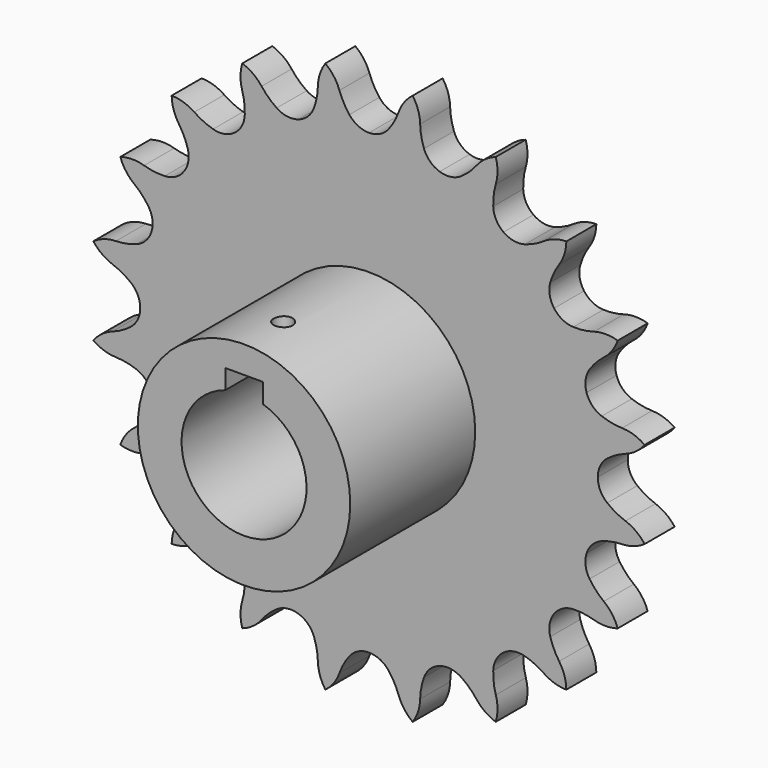
from build123d import *

# Parameters (mm, degrees)
F0_R     = 17
F1_DEPTH = 25
F3_DEPTH = 6
F4_DEPTH = 25
F6_R     = 1.5
F7_DEPTH = 11.1


with BuildPart() as f1:
    # F0 (on Front) → F1 (new body)
    with BuildSketch(Plane.XZ):
        Circle(F0_R)
        with BuildLine():
            ThreePointArc((3, 9.539392), (0, -10), (-3, 9.539392))
            Line((-3, 9.539392), (-3, 12.662534))
            Line((-3, 12.662534), (3, 12.662534))
            Line((3, 12.662534), (3, 9.539392))
        make_face(mode=Mode.SUBTRACT)
    extrude(amount=F1_DEPTH)

    # F2 (on Front) → F3 (join)
    with BuildSketch(Plane.XZ):
        with BuildLine():
            ThreePointArc((-3.137307, 38.140967), (-4.052632, 39.530453), (-4.7327, 41.049005))
            ThreePointArc((-4.7327, 41.049005), (-5.632975, 42.747893), (-6.986829, 44.113103))
            ThreePointArc((-6.986829, 44.113103), (-7.852548, 42.396347), (-8.183775, 40.502408))
            ThreePointArc((-8.183775, 40.502408), (-8.3613, 38.848027), (-8.802451, 37.243696))
            ThreePointArc((-8.802451, 37.243696), (-9.778005, 35.741474), (-11.313359, 34.81894))
            ThreePointArc((-11.313359, 34.81894), (-13.097739, 34.662827), (-14.769963, 35.304734))
            ThreePointArc((-14.769963, 35.304734), (-16.069864, 36.343363), (-17.185905, 37.577439))
            ThreePointArc((-17.185905, 37.577439), (-18.567103, 38.914977), (-20.276568, 39.795005))
            ThreePointArc((-20.276568, 39.795005), (-20.569409, 37.894752), (-20.299165, 35.991153))
            ThreePointArc((-20.299165, 35.991153), (-19.956769, 34.362886), (-19.880563, 32.700753))
            ThreePointArc((-19.880563, 32.700753), (-20.344158, 30.970592), (-21.519288, 29.618759))
            ThreePointArc((-21.519288, 29.618759), (-23.168092, 28.918884), (-24.956833, 29.012628))
            ThreePointArc((-24.956833, 29.012628), (-26.514065, 29.598731), (-27.956834, 30.427531))
            ThreePointArc((-27.956834, 30.427531), (-29.683754, 31.272793), (-31.581495, 31.581495))
            ThreePointArc((-31.581495, 31.581495), (-31.272793, 29.683754), (-30.427531, 27.956834))
            ThreePointArc((-30.427531, 27.956834), (-29.598731, 26.514065), (-29.012628, 24.956833))
            ThreePointArc((-29.012628, 24.956833), (-28.918884, 23.168092), (-29.618759, 21.519288))
            ThreePointArc((-29.618759, 21.519288), (-30.970592, 20.344158), (-32.700753, 19.880563))
            ThreePointArc((-32.700753, 19.880563), (-34.362886, 19.956769), (-35.991153, 20.299165))
            ThreePointArc((-35.991153, 20.299165), (-37.894752, 20.569409), (-39.795005, 20.276568))
            ThreePointArc((-39.795005, 20.276568), (-38.914977, 18.567103), (-37.577439, 17.185905))
            ThreePointArc((-37.577439, 17.185905), (-36.343363, 16.069864), (-35.304734, 14.769963))
            ThreePointArc((-35.304734, 14.769963), (-34.662827, 13.097739), (-34.81894, 11.313359))
            ThreePointArc((-34.81894, 11.313359), (-35.741474, 9.778005), (-37.243696, 8.802451))
            ThreePointArc((-37.243696, 8.802451), (-38.848027, 8.3613), (-40.502408, 8.183775))
            ThreePointArc((-40.502408, 8.183775), (-42.396347, 7.852548), (-44.113103, 6.986829))
            ThreePointArc((-44.113103, 6.986829), (-42.747893, 5.632975), (-41.049005, 4.7327))
            ThreePointArc((-41.049005, 4.7327), (-39.530453, 4.052632), (-38.140967, 3.137307))
            ThreePointArc((-38.140967, 3.137307), (-37.013731, 1.745287), (-36.6108, 0))
            ThreePointArc((-36.6108, 0), (-37.013731, -1.745287), (-38.140967, -3.137307))
            ThreePointArc((-38.140967, -3.137307), (-39.530453, -4.052632), (-41.049005, -4.7327))
            ThreePointArc((-41.049005, -4.7327), (-42.747893, -5.632975), (-44.113103, -6.986829))
            ThreePointArc((-44.113103, -6.986829), (-42.396347, -7.852548), (-40.502408, -8.183775))
            ThreePointArc((-40.502408, -8.183775), (-38.848027, -8.3613), (-37.243696, -8.802451))
            ThreePointArc((-37.243696, -8.802451), (-35.741474, -9.778005), (-34.81894, -11.313359))
            ThreePointArc((-34.81894, -11.313359), (-34.662827, -13.097739), (-35.304734, -14.769963))
            ThreePointArc((-35.304734, -14.769963), (-36.343363, -16.069864), (-37.577439, -17.185905))
            ThreePointArc((-37.577439, -17.185905), (-38.914977, -18.567103), (-39.795005, -20.276568))
            ThreePointArc((-39.795005, -20.276568), (-37.894752, -20.569409), (-35.991153, -20.299165))
            ThreePointArc((-35.991153, -20.299165), (-34.362886, -19.956769), (-32.700753, -19.880563))
            ThreePointArc((-32.700753, -19.880563), (-30.970592, -20.344158), (-29.618759, -21.519288))
            ThreePointArc((-29.618759, -21.519288), (-28.918884, -23.168092), (-29.012628, -24.956833))
            ThreePointArc((-29.012628, -24.956833), (-29.598731, -26.514065), (-30.427531, -27.956834))
            ThreePointArc((-30.427531, -27.956834), (-31.272793, -29.683754), (-31.581495, -31.581495))
            ThreePointArc((-31.581495, -31.581495), (-29.683754, -31.272793), (-27.956834, -30.427531))
            ThreePointArc((-27.956834, -30.427531), (-26.514065, -29.598731), (-24.956833, -29.012628))
            ThreePointArc((-24.956833, -29.012628), (-23.168092, -28.918884), (-21.519288, -29.618759))
            ThreePointArc((-21.519288, -29.618759), (-20.344158, -30.970592), (-19.880563, -32.700753))
            ThreePointArc((-19.880563, -32.700753), (-19.956769, -34.362886), (-20.299165, -35.991153))
            ThreePointArc((-20.299165, -35.991153), (-20.569409, -37.894752), (-20.276568, -39.795005))
            ThreePointArc((-20.276568, -39.795005), (-18.567103, -38.914977), (-17.185905, -37.577439))
            ThreePointArc((-17.185905, -37.577439), (-16.069864, -36.343363), (-14.769963, -35.304734))
            ThreePointArc((-14.769963, -35.304734), (-13.097739, -34.662827), (-11.313359, -34.81894))
            ThreePointArc((-11.313359, -34.81894), (-9.778005, -35.741474), (-8.802451, -37.243696))
            ThreePointArc((-8.802451, -37.243696), (-8.3613, -38.848027), (-8.183775, -40.502408))
            ThreePointArc((-8.183775, -40.502408), (-7.852548, -42.396347), (-6.986829, -44.113103))
            ThreePointArc((-6.986829, -44.113103), (-5.632975, -42.747893), (-4.7327, -41.049005))
            ThreePointArc((-4.7327, -41.049005), (-4.052632, -39.530453), (-3.137307, -38.140967))
            ThreePointArc((-3.137307, -38.140967), (-1.745287, -37.013731), (0, -36.6108))
            ThreePointArc((0, -36.6108), (1.745287, -37.013731), (3.137307, -38.140967))
            ThreePointArc((3.137307, -38.140967), (4.052632, -39.530453), (4.7327, -41.049005))
            ThreePointArc((4.7327, -41.049005), (5.632975, -42.747893), (6.986829, -44.113103))
            ThreePointArc((6.986829, -44.113103), (7.852548, -42.396347), (8.183775, -40.502408))
            ThreePointArc((8.183775, -40.502408), (8.3613, -38.848027), (8.802451, -37.243696))
            ThreePointArc((8.802451, -37.243696), (9.778005, -35.741474), (11.313359, -34.81894))
            ThreePointArc((11.313359, -34.81894), (13.097739, -34.662827), (14.769963, -35.304734))
            ThreePointArc((14.769963, -35.304734), (16.069864, -36.343363), (17.185905, -37.577439))
            ThreePointArc((17.185905, -37.577439), (18.567103, -38.914977), (20.276568, -39.795005))
            ThreePointArc((20.276568, -39.795005), (20.569409, -37.894752), (20.299165, -35.991153))
            ThreePointArc((20.299165, -35.991153), (19.956769, -34.362886), (19.880563, -32.700753))
            ThreePointArc((19.880563, -32.700753), (20.344158, -30.970592), (21.519288, -29.618759))
            ThreePointArc((21.519288, -29.618759), (23.168092, -28.918884), (24.956833, -29.012628))
            ThreePointArc((24.956833, -29.012628), (26.514065, -29.598731), (27.956834, -30.427531))
            ThreePointArc((27.956834, -30.427531), (29.683754, -31.272793), (31.581495, -31.581495))
            ThreePointArc((31.581495, -31.581495), (31.272793, -29.683754), (30.427531, -27.956834))
            ThreePointArc((30.427531, -27.956834), (29.598731, -26.514065), (29.012628, -24.956833))
            ThreePointArc((29.012628, -24.956833), (28.918884, -23.168092), (29.618759, -21.519288))
            ThreePointArc((29.618759, -21.519288), (30.970592, -20.344158), (32.700753, -19.880563))
            ThreePointArc((32.700753, -19.880563), (34.362886, -19.956769), (35.991153, -20.299165))
            ThreePointArc((35.991153, -20.299165), (37.894752, -20.569409), (39.795005, -20.276568))
            ThreePointArc((39.795005, -20.276568), (38.914977, -18.567103), (37.577439, -17.185905))
            ThreePointArc((37.577439, -17.185905), (36.343363, -16.069864), (35.304734, -14.769963))
            ThreePointArc((35.304734, -14.769963), (34.662827, -13.097739), (34.81894, -11.313359))
            ThreePointArc((34.81894, -11.313359), (35.741474, -9.778005), (37.243696, -8.802451))
            ThreePointArc((37.243696, -8.802451), (38.848027, -8.3613), (40.502408, -8.183775))
            ThreePointArc((40.502408, -8.183775), (42.396347, -7.852548), (44.113103, -6.986829))
            ThreePointArc((44.113103, -6.986829), (42.747893, -5.632975), (41.049005, -4.7327))
            ThreePointArc((41.049005, -4.7327), (39.530453, -4.052632), (38.140967, -3.137307))
            ThreePointArc((38.140967, -3.137307), (37.013731, -1.745287), (36.6108, 0))
            ThreePointArc((36.6108, 0), (37.013731, 1.745287), (38.140967, 3.137307))
            ThreePointArc((38.140967, 3.137307), (39.530453, 4.052632), (41.049005, 4.7327))
            ThreePointArc((41.049005, 4.7327), (42.747893, 5.632975), (44.113103, 6.986829))
            ThreePointArc((44.113103, 6.986829), (42.396347, 7.852548), (40.502408, 8.183775))
            ThreePointArc((40.502408, 8.183775), (38.848027, 8.3613), (37.243696, 8.802451))
            ThreePointArc((37.243696, 8.802451), (35.741474, 9.778005), (34.81894, 11.313359))
            ThreePointArc((34.81894, 11.313359), (34.662827, 13.097739), (35.304734, 14.769963))
            ThreePointArc((35.304734, 14.769963), (36.343363, 16.069864), (37.577439, 17.185905))
            ThreePointArc((37.577439, 17.185905), (38.914977, 18.567103), (39.795005, 20.276568))
            ThreePointArc((39.795005, 20.276568), (37.894752, 20.569409), (35.991153, 20.299165))
            ThreePointArc((35.991153, 20.299165), (34.362886, 19.956769), (32.700753, 19.880563))
            ThreePointArc((32.700753, 19.880563), (30.970592, 20.344158), (29.618759, 21.519288))
            ThreePointArc((29.618759, 21.519288), (28.918884, 23.168092), (29.012628, 24.956833))
            ThreePointArc((29.012628, 24.956833), (29.598731, 26.514065), (30.427531, 27.956834))
            ThreePointArc((30.427531, 27.956834), (31.272793, 29.683754), (31.581495, 31.581495))
            ThreePointArc((31.581495, 31.581495), (29.683754, 31.272793), (27.956834, 30.427531))
            ThreePointArc((27.956834, 30.427531), (26.514065, 29.598731), (24.956833, 29.012628))
            ThreePointArc((24.956833, 29.012628), (23.168092, 28.918884), (21.519288, 29.618759))
            ThreePointArc((21.519288, 29.618759), (20.344158, 30.970592), (19.880563, 32.700753))
            ThreePointArc((19.880563, 32.700753), (19.956769, 34.362886), (20.299165, 35.991153))
            ThreePointArc((20.299165, 35.991153), (20.569409, 37.894752), (20.276568, 39.795005))
            ThreePointArc((20.276568, 39.795005), (18.567103, 38.914977), (17.185905, 37.577439))
            ThreePointArc((17.185905, 37.577439), (16.069864, 36.343363), (14.769963, 35.304734))
            ThreePointArc((14.769963, 35.304734), (13.097739, 34.662827), (11.313359, 34.81894))
            ThreePointArc((11.313359, 34.81894), (9.778005, 35.741474), (8.802451, 37.243696))
            ThreePointArc((8.802451, 37.243696), (8.3613, 38.848027), (8.183775, 40.502408))
            ThreePointArc((8.183775, 40.502408), (7.852548, 42.396347), (6.986829, 44.113103))
            ThreePointArc((6.986829, 44.113103), (5.632975, 42.747893), (4.7327, 41.049005))
            ThreePointArc((4.7327, 41.049005), (4.052632, 39.530453), (3.137307, 38.140967))
            ThreePointArc((3.137307, 38.140967), (1.745287, 37.013731), (0, 36.6108))
            ThreePointArc((0, 36.6108), (-1.745287, 37.013731), (-3.137307, 38.140967))
        make_face()
    extrude(amount=-F3_DEPTH)

    # F3_face (on face) → F4 (cut)
    with BuildSketch(Plane(origin=(0, 0, 0.573995), x_dir=(1, 0, 0), z_dir=(0, -1, 0))):
        with BuildLine():
            ThreePointArc((-3, 8.965397), (0, -10.573995), (3, 8.965397))
            Line((3, 8.965397), (3, 12.088539))
            Line((3, 12.088539), (-3, 12.088539))
            Line((-3, 12.088539), (-3, 8.965397))
        make_face()
    extrude(amount=-F4_DEPTH, mode=Mode.SUBTRACT)

    # F6 (on offset) → F7 (cut)
    with BuildSketch(Plane.XY.offset(17)):
        with Locations((0, -17.183965)):
            Circle(F6_R)
    extrude(amount=-F7_DEPTH, mode=Mode.SUBTRACT)


solid = f1.part
